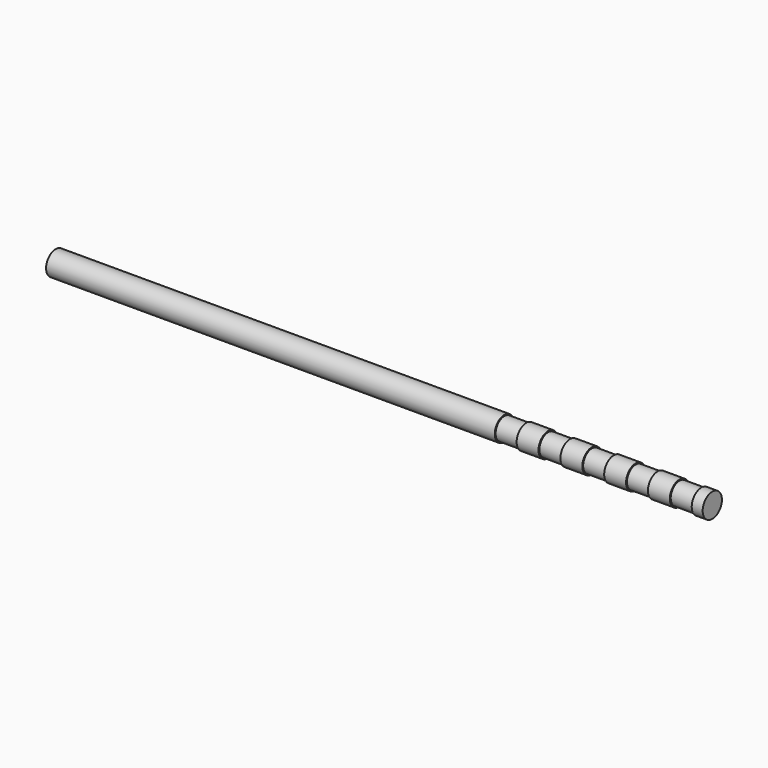
from build123d import *

# Parameters (mm, degrees)
F0_W     = 6
F0_H     = 0.1
F0_H_2   = 1
F0_W_2   = 2
F0_W_3   = 1
F2_DEPTH = 10
F3_DEPTH = 10
F4_DEPTH = 15


with BuildPart() as f1:
    # F0 (on Front) → F1 (revolve)
    with BuildSketch(Plane.XZ):
        with Locations((-22, 1.05)):
            Rectangle(F0_W, F0_H)
        with Locations((-22, 0.5)):
            Rectangle(F0_W, F0_H_2)
        with Locations((-12, 0.5)):
            Rectangle(F0_W_2, F0_H_2)
        with Locations((-12, 1.05)):
            Rectangle(F0_W_2, F0_H)
        with Locations((-10, 0.5)):
            Rectangle(F0_W_2, F0_H_2)
        with Locations((-8, 0.5)):
            Rectangle(F0_W_2, F0_H_2)
        with Locations((-8, 1.05)):
            Rectangle(F0_W_2, F0_H)
        with Locations((-6, 0.5)):
            Rectangle(F0_W_2, F0_H_2)
        with Locations((-4, 0.5)):
            Rectangle(F0_W_2, F0_H_2)
        with Locations((-4, 1.05)):
            Rectangle(F0_W_2, F0_H)
        with Locations((-2, 0.5)):
            Rectangle(F0_W_2, F0_H_2)
        with Locations((-0.5, 0.5)):
            Rectangle(F0_W_3, F0_H_2)
        with Locations((-0.5, 1.05)):
            Rectangle(F0_W_3, F0_H)
        with Locations((-14, 0.5)):
            Rectangle(F0_W_2, F0_H_2)
        with Locations((-16, 0.5)):
            Rectangle(F0_W_2, F0_H_2)
        with Locations((-16, 1.05)):
            Rectangle(F0_W_2, F0_H)
        with Locations((-18, 0.5)):
            Rectangle(F0_W_2, F0_H_2)
    revolve(axis=Axis((-12.5, 0, 0), (-1, 0, 0)))

    # F2 (add): a face of the model
    f2_faces = [f1.faces().sort_by_distance(p)[0] for p in [
        (-25, 0, 0),
    ]]
    extrude(f2_faces, amount=F2_DEPTH)

    # F3 (add): a face of the model
    f3_faces = [f1.faces().sort_by_distance(p)[0] for p in [
        (-35, 0, 0),
    ]]
    extrude(f3_faces, amount=F3_DEPTH)

    # F4 (add): a face of the model
    f4_faces = [f1.faces().sort_by_distance(p)[0] for p in [
        (-45, 0, 0),
    ]]
    extrude(f4_faces, amount=F4_DEPTH)


solid = f1.part
